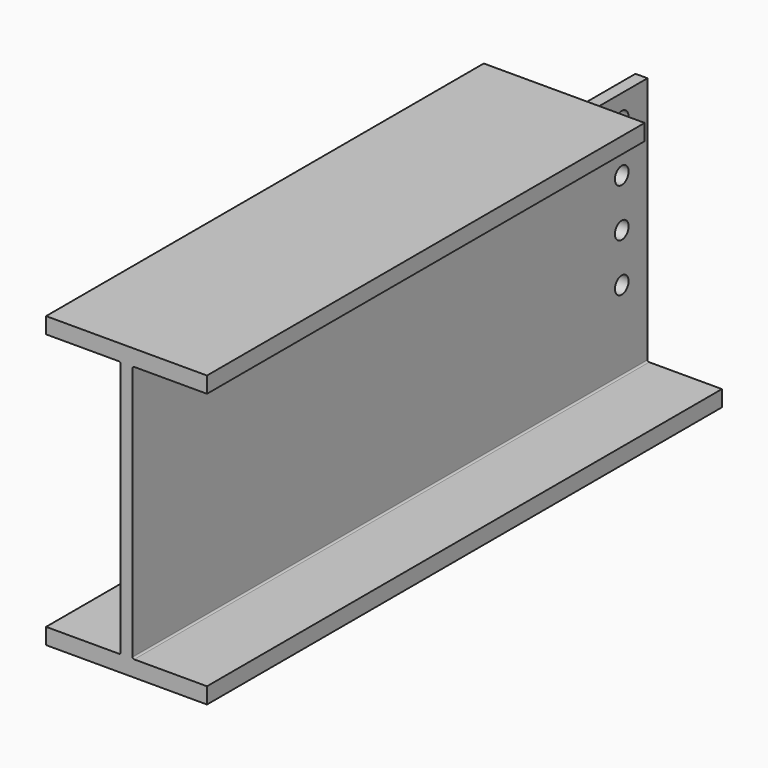
from build123d import *

# Parameters (mm, degrees)
F1_DEPTH = 508
F3_D     = 26.9875
F4_W     = 254
F4_H     = 152.4
F5_DEPTH = 38.1


with BuildPart() as f1:
    # F0 (on Front) → F1 (new body, symmetric)
    with BuildSketch(Plane.XZ):
        with BuildLine():
            Line((127, -228.6), (127, -203.2))
            Line((127, -203.2), (12.065, -203.2))
            ThreePointArc((12.065, -203.2), (10.268949, -202.456051), (9.525, -200.66))
            Line((9.525, -200.66), (9.525, 200.66))
            ThreePointArc((9.525, 200.66), (10.268949, 202.456051), (12.065, 203.2))
            Line((12.065, 203.2), (127, 203.2))
            Line((127, 203.2), (127, 228.6))
            Line((127, 228.6), (-127, 228.6))
            Line((-127, 228.6), (-127, 203.2))
            Line((-127, 203.2), (-12.065, 203.2))
            ThreePointArc((-12.065, 203.2), (-10.268949, 202.456051), (-9.525, 200.66))
            Line((-9.525, 200.66), (-9.525, -200.66))
            ThreePointArc((-9.525, -200.66), (-10.268949, -202.456051), (-12.065, -203.2))
            Line((-12.065, -203.2), (-127, -203.2))
            Line((-127, -203.2), (-127, -228.6))
            Line((-127, -228.6), (127, -228.6))
        make_face()
    extrude(amount=F1_DEPTH, both=True)

    # F3 (through all)
    with Locations(Plane.YZ.offset(9.525)):
        with Locations((457.2, 152.4), (457.2, 76.2), (457.2, 0), (457.2, -76.2)):
            Hole(F3_D / 2)

    # F4 (on face) → F5 (cut)
    with BuildSketch(Plane.XY.offset(228.6)):
        with Locations((0, 431.8)):
            Rectangle(F4_W, F4_H)
    extrude(amount=-F5_DEPTH, mode=Mode.SUBTRACT)


solid = f1.part
